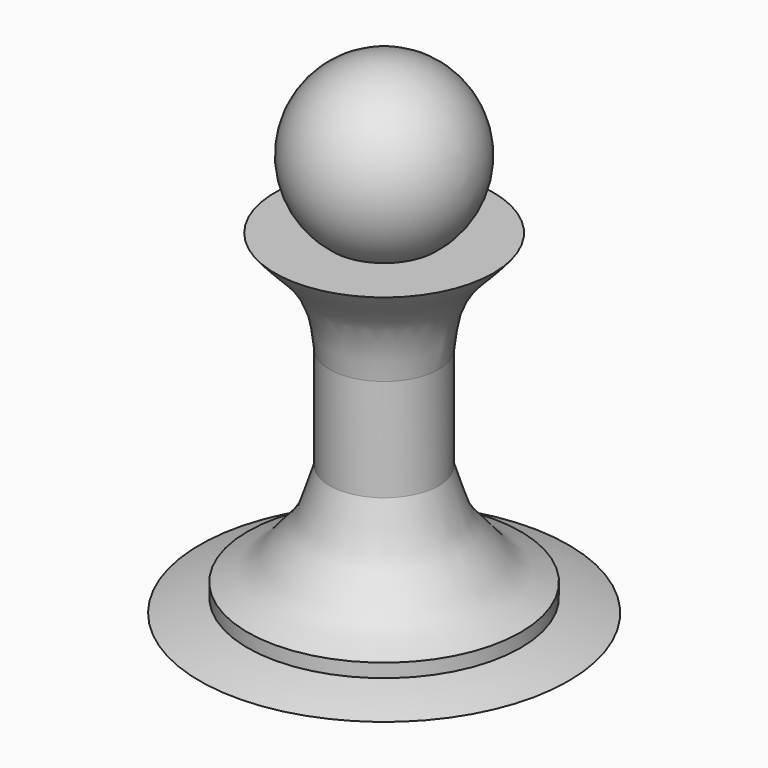
from build123d import *


with BuildPart() as f1:
    # F0 (on Front) → F1 (revolve)
    with BuildSketch(Plane.XZ):
        with BuildLine():
            Line((16, 6.8978102505), (7.5, 6.8978102505))
            ThreePointArc((7.5, 6.8978102505), (11.8585412256, 20.8506573257), (0, 29.3978102505))
            Line((0, 29.3978102505), (0, -40.1021897495))
            Line((0, -40.1021897495), (0, -42.1021897495))
            Line((0, -42.1021897495), (27, -42.1021897495))
            add(Edge.make_bspline(
                [(20, -40.1021897495), (21.1941168938, -40.3914195553), (23.5711927758, -40.9671765849), (25.860646462, -41.7250378187), (27, -42.1021897495)],
                knots=[0, 0, 0, 0, 0.5023469814, 1, 1, 1, 1], degree=3))
            Line((20, -40.1021897495), (20, -38.1021897495))
            add(Edge.make_bspline(
                [(8, -23.1021897495), (8.4116986172, -24.3725126167), (9.2141891192, -26.8486492684), (10.1557921826, -30.261356741), (13.6841732577, -33.5767875841), (15.2886480583, -36.2616137633), (18.3100686008, -37.4419870752), (20, -38.1021897495)],
                knots=[0, 0, 0, 0, 0.1981709642, 0.3862784812, 0.6019803529, 0.7773809075, 1, 1, 1, 1], degree=3))
            Line((8, -23.1021897495), (8, -8.1021897495))
            add(Edge.make_bspline(
                [(16, 6.8978102505), (15.784768845, 6.6281214852), (15.2642741944, 5.9759317051), (13.6752468804, 4.3027483389), (11.1275981536, 1.7691261968), (9.0660220221, -1.7295241114), (8.3874027664, -4.7571299872), (8.1309092124, -6.971843823), (8, -8.1021897495)],
                knots=[0, 0, 0, 0, 0.1049711949, 0.2538524008, 0.4446112015, 0.6438961042, 0.8182516488, 1, 1, 1, 1], degree=3))
        make_face()
    revolve(axis=Axis((0, 0, -6.3521897495), (0, 0, -1)))


solid = f1.part
